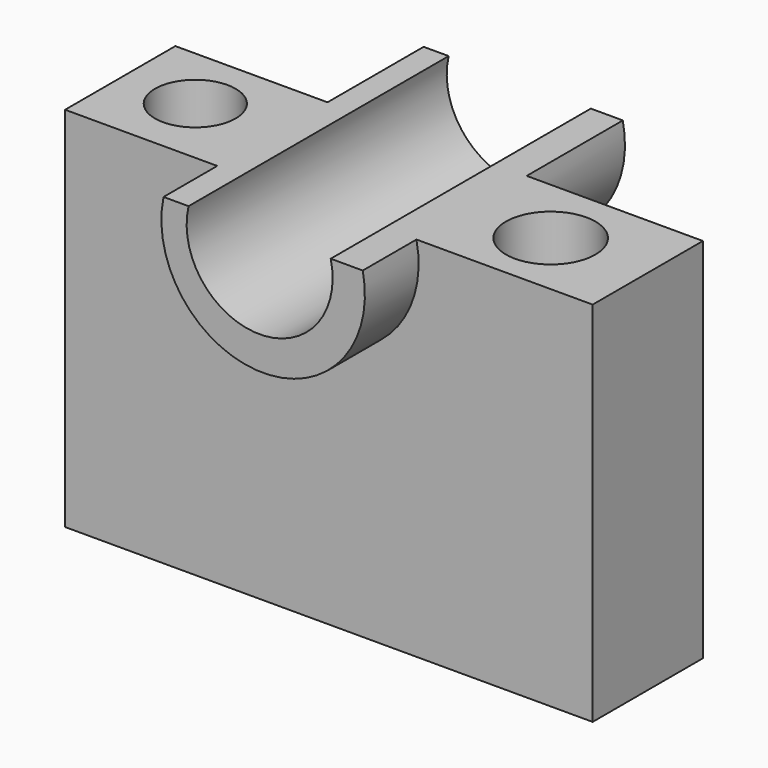
from build123d import *

# Parameters (mm, degrees)
F1_DEPTH = 19
F2_DEPTH = 92
F3_DEPTH = 39
F4_R     = 11.4088376228
F6_DEPTH = 103.9623373578
F5_R     = 12.6645604818
F7_DEPTH = 103.9623373578


with BuildPart() as f1:
    # F0 (on Front) → F1 (new body)
    with BuildSketch(Plane.XZ):
        with BuildLine():
            Line((-24.5031490922, 55.0966747105), (-31.5849818289, 55.0966747105))
            ThreePointArc((-31.5849818289, 55.0966747105), (-3.3992808312, 20.4304908119), (24.7864201665, 55.0966747105))
            Line((24.7864201665, 55.0966747105), (15.7216750085, 55.0966747105))
            ThreePointArc((15.7216750085, 55.0966747105), (-4.3907370418, 29.7217311132), (-24.5031490922, 55.0966747105))
        make_face()
    extrude(amount=F1_DEPTH)

    # F2 (add): a face of the model
    f2_faces = [f1.faces().sort_by_distance(p)[0] for p in [
        (20.2540475875, -19, 54.4245489648),
    ]]
    extrude(f2_faces, amount=-F2_DEPTH)

    # F0 (on Front) → F3 (join)
    with BuildSketch(Plane.XZ):
        with BuildLine():
            Line((-31.5849818289, 55.0966747105), (-74.6425390244, 55.0966747105))
            Line((-74.6425390244, 55.0966747105), (-74.6425390244, -48.8646626472))
            Line((-74.6425390244, -48.8646626472), (74.6425390244, -48.8646626472))
            Line((74.6425390244, -48.8646626472), (74.6425390244, 55.0966747105))
            Line((74.6425390244, 55.0966747105), (24.7864201665, 55.0966747105))
            ThreePointArc((24.7864201665, 55.0966747105), (-3.3992808312, 20.4304908119), (-31.5849818289, 55.0966747105))
        make_face()
    extrude(amount=-F3_DEPTH)

    # F4 (on face) → F6 (cut, through all)
    with BuildSketch(Plane.XY.offset(55.0966747105)):
        with Locations((-54.0047772229, 20.259199664)):
            Circle(F4_R)
    extrude(amount=-F6_DEPTH, mode=Mode.SUBTRACT)

    # F5 (on face) → F7 (cut, through all)
    with BuildSketch(Plane.XY.offset(55.0966747105)):
        with Locations((47.5070998073, 19.0783925354)):
            Circle(F5_R)
    extrude(amount=-F7_DEPTH, mode=Mode.SUBTRACT)


solid = f1.part
